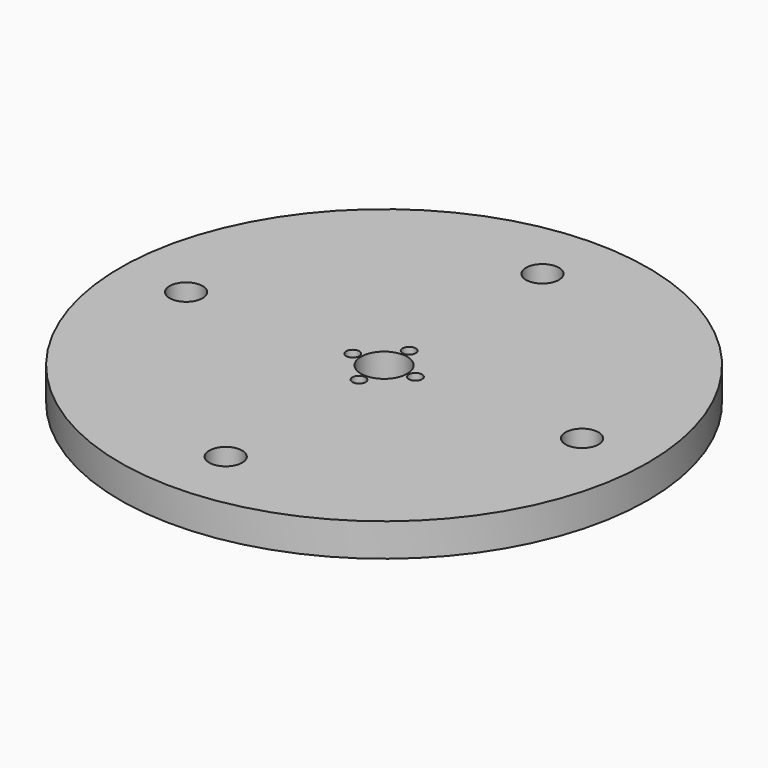
from build123d import *

# Parameters (mm, degrees)
F0_R     = 40
F0_R_2   = 2.5
F0_R_3   = 15
F0_R_4   = 1
F0_R_5   = 3.5
F1_DEPTH = 5


with BuildPart() as f1:
    # F0 (on Top) → F1 (new body)
    with BuildSketch(Plane.XY):
        Circle(F0_R)
        with Locations((0, -30)):
            Circle(F0_R_2, mode=Mode.SUBTRACT)
        with Locations((-30, 0)):
            Circle(F0_R_2, mode=Mode.SUBTRACT)
        Circle(F0_R_3, mode=Mode.SUBTRACT)
        with Locations((30, 0)):
            Circle(F0_R_2, mode=Mode.SUBTRACT)
        with Locations((0, 30)):
            Circle(F0_R_2, mode=Mode.SUBTRACT)
        Circle(F0_R_3)
        with Locations((0, -4.75)):
            Circle(F0_R_4, mode=Mode.SUBTRACT)
        with Locations((-4.75, 0)):
            Circle(F0_R_4, mode=Mode.SUBTRACT)
        Circle(F0_R_5, mode=Mode.SUBTRACT)
        with Locations((4.75, 0)):
            Circle(F0_R_4, mode=Mode.SUBTRACT)
        with Locations((0, 4.75)):
            Circle(F0_R_4, mode=Mode.SUBTRACT)
    extrude(amount=F1_DEPTH)


solid = f1.part
